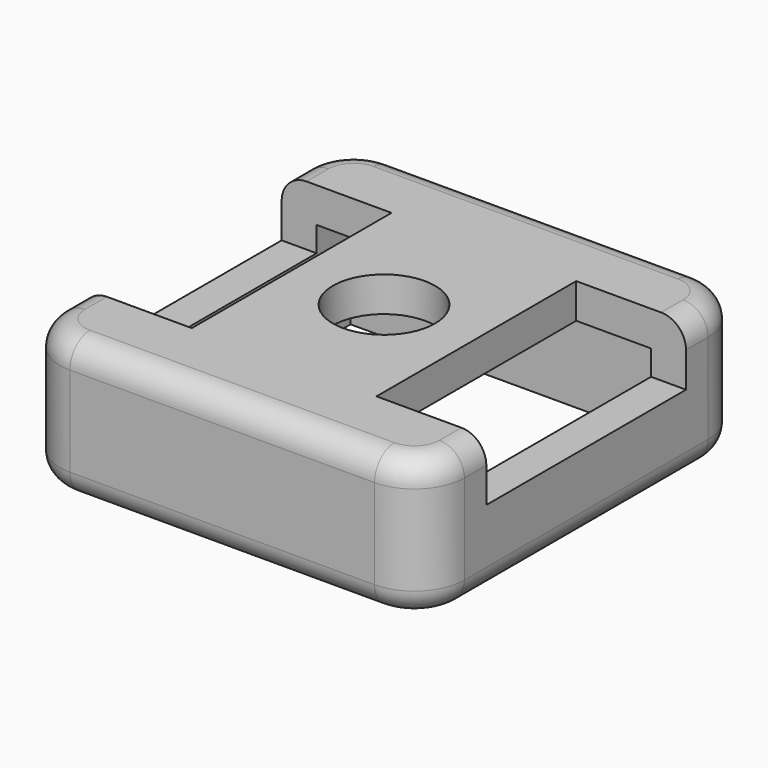
from build123d import *

# Parameters (mm, degrees)
F0_W      = 20.574
F0_H      = 20.574
F1_DEPTH  = 7.112
F2_W      = 17.018
F2_H      = 17.018
F3_DEPTH  = 5.334
F4_R      = 2.54
F5_W      = 5.588
F5_H      = 12.7
F6_DEPTH  = 3.048
F7_W      = 11.176
F7_H      = 12.7
F8_DEPTH  = 3.048
F9_R      = 2.6
F10_DEPTH = 1.778
F11_R     = 1.27
F12_R     = 1.27


with BuildPart() as f1:
    # F0 (on Top) → F1 (new body)
    with BuildSketch(Plane.XY):
        Rectangle(F0_W, F0_H)
    extrude(amount=F1_DEPTH)

    # F2 (on face) → F3 (cut)
    with BuildSketch(Plane(origin=(0, 0, 0), x_dir=(1, 0, 0), z_dir=(0, 0, -1))):
        Rectangle(F2_W, F2_H)
    extrude(amount=-F3_DEPTH, mode=Mode.SUBTRACT)

    # F4
    f4_edges = [f1.edges().sort_by_distance(p)[0] for p in [
        (-10.287, -10.287, 3.556),
        (10.287, 10.287, 3.556),
        (10.287, -10.287, 3.556),
        (-10.287, 10.287, 3.556),
    ]]
    fillet(f4_edges, radius=F4_R)

    # F5 (on face) → F6 (cut)
    with BuildSketch(Plane.XY.offset(7.112)):
        with Locations((-7.493, 0)):
            Rectangle(F5_W, F5_H)
    extrude(amount=-F6_DEPTH, mode=Mode.SUBTRACT)

    # F7 (on face) → F8 (cut)
    with BuildSketch(Plane.XY.offset(7.112)):
        with Locations((10.287, 0)):
            Rectangle(F7_W, F7_H)
    extrude(amount=-F8_DEPTH, mode=Mode.SUBTRACT)

    # F9 (on face) → F10 (cut)
    with BuildSketch(Plane.XY.offset(7.112)):
        Circle(F9_R)
    extrude(amount=-F10_DEPTH, mode=Mode.SUBTRACT)

    # F11
    f11_edges = [f1.edges().sort_by_distance(p)[0] for p in [
        (0, 10.287, 7.112),
        (0, -10.287, 7.112),
    ]]
    fillet(f11_edges, radius=F11_R)

    # F12
    f12_edges = [f1.edges().sort_by_distance(p)[0] for p in [
        (-10.287, 0, 0),
        (0, 10.287, 0),
        (-9.543051, 9.543051, 0),
    ]]
    fillet(f12_edges, radius=F12_R)


solid = f1.part
